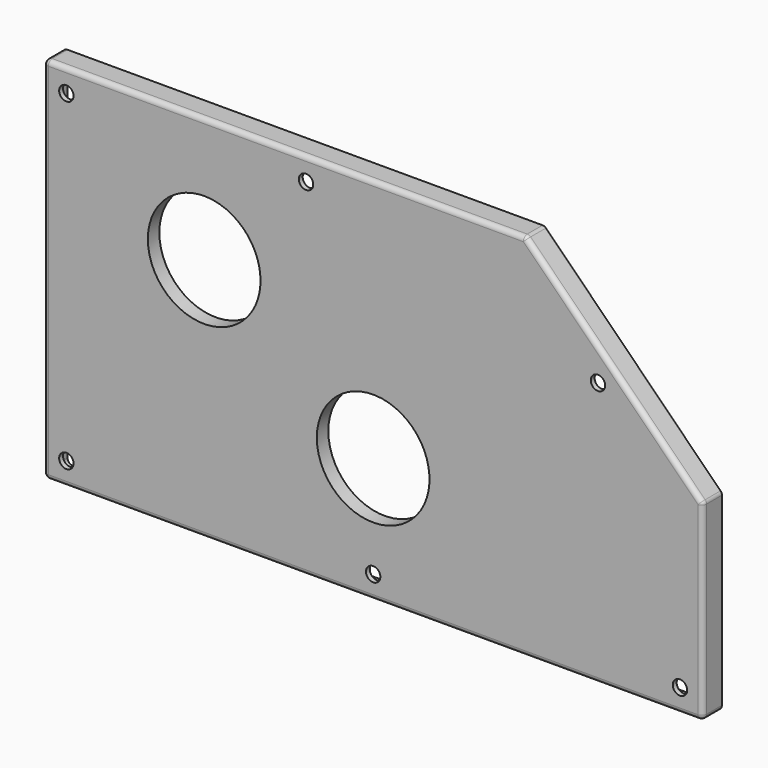
from build123d import *

# Parameters (mm, degrees)
F1_DEPTH      = 10
F2_T          = -2
F5_DEPTH      = 4
F3_R          = 23.5
F6_DEPTH      = 8.001
F6_DEPTH_BACK = 2.001
F7_R          = 13.5
F8_DEPTH      = 20
F9_R          = 4
F10_DEPTH     = 20
F12_D         = 6
F13_R         = 2
F14_R         = 2


with BuildPart() as f1:
    # F0 (on Front) → F1 (new body)
    with BuildSketch(Plane.XZ):
        Polygon((0, 154), (0, 0), (275, 0), (275, 80), (201, 154), align=None)
    extrude(amount=F1_DEPTH)

    # F2
    f2_openings = [f1.faces().sort_by_distance(p)[0] for p in [
        (129.700907, 0, 73.382695),
    ]]
    offset(amount=F2_T, openings=f2_openings)

    # F4 (on face) → F5 (join)
    with BuildSketch(Plane(origin=(0, -8, 0), x_dir=(-1, 0, 0), z_dir=(0, 1, 0))):
        Polygon((-32, 87), (-32, 132), (-177, 132), (-177, 22), (-97, 22), align=None)
        Polygon((-32, 87), (-32, 132), (-177, 132), (-177, 22), (-97, 22), align=None)
    extrude(amount=F5_DEPTH)

    # F3 (on face) → F6 (cut, two sides)
    with BuildSketch(Plane(origin=(0, -8, 0), x_dir=(-1, 0, 0), z_dir=(0, 1, 0))) as f6_sk:
        with Locations((-67, 102)):
            Circle(F3_R)
        with Locations((-137.5, 52)):
            Circle(F3_R)
    extrude(amount=F6_DEPTH, mode=Mode.SUBTRACT)
    extrude(f6_sk.sketch, amount=-F6_DEPTH_BACK, mode=Mode.SUBTRACT)

    # F7 (on face) → F8 (join)
    with BuildSketch(Plane(origin=(0, -8, 0), x_dir=(-1, 0, 0), z_dir=(0, 1, 0))):
        with Locations((-44, 44)):
            Circle(F7_R)
    extrude(amount=F8_DEPTH)

    # F9 (on face) → F10 (cut, through all)
    with BuildSketch(Plane(origin=(0, 12, 0), x_dir=(-1, 0, 0), z_dir=(0, 1, 0))):
        with Locations((-44, 44)):
            Circle(F9_R)
    extrude(amount=-F10_DEPTH, mode=Mode.SUBTRACT)

    # F12 (through all)
    with Locations(Plane.XZ.offset(10)):
        with Locations((9.5, 144.5), (109.5, 144.5), (231.2824855787, 110.2824855787), (265.5, 9.5), (137.5, 9.5), (9.5, 9.5)):
            Hole(F12_D / 2)

    # F13
    f13_edges = [f1.edges().sort_by_distance(p)[0] for p in [
        (0, -10, 77),
        (137.5, -10, 0),
        (238, -10, 117),
        (275, -10, 40),
        (275, -5, 0),
        (275, -5, 80),
        (201, -5, 154),
        (0, -5, 0),
        (100.5, -10, 154),
        (0, -5, 154),
    ]]
    fillet(f13_edges, radius=F13_R)

    # F14
    f14_edges = [f1.edges().sort_by_distance(p)[0] for p in [
        (273, -4, 2),
        (137.5, -8, 2),
        (273, -8, 40.585786),
        (236.585786, -8, 115.585786),
        (200.171573, -4, 152),
        (101.085786, -8, 152),
        (2, -4, 2),
        (2, -8, 77),
    ]]
    fillet(f14_edges, radius=F14_R)


solid = f1.part
